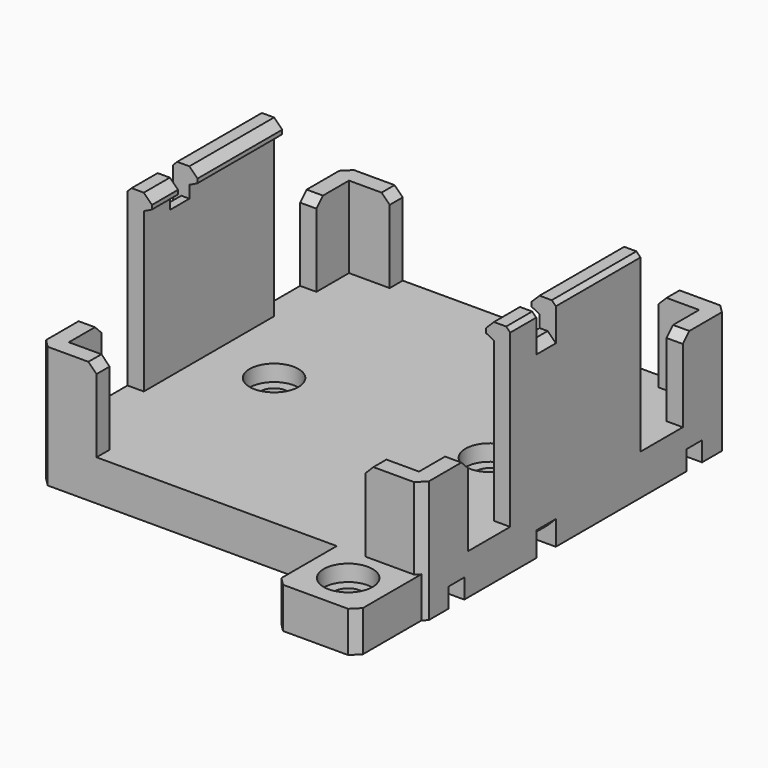
from build123d import *

# Parameters (mm, degrees)
BOX025_W           = 50
BOX025_H           = 3
BOX025_DEPTH       = 5
BOX024_W           = 50
BOX024_H           = 3
BOX024_DEPTH       = 2
CYLINDER004_R      = 3
CYLINDER004_DEPTH  = 10
CYLINDER005_R      = 1.7
CYLINDER005_DEPTH  = 10
BOX016_W           = 10
BOX016_H           = 10
BOX016_DEPTH       = 5
CHAMFER012_SIZE    = 1
BOX015_W           = 50
BOX015_H           = 2.4
BOX015_DEPTH       = 2.4
BOX014_W           = 50
BOX014_H           = 2.4
BOX014_DEPTH       = 2.4
BOX012_W           = 3
BOX012_H           = 20
BOX012_DEPTH       = 2
CHAMFER001_SIZE    = 1
CHAMFER003_SIZE2   = 1
CHAMFER003_SIZE    = 0.5
CHAMFER005_SIZE    = 0.5
BOX010_W           = 2
BOX010_H           = 20
BOX010_DEPTH       = 20
BOX001_W           = 7
BOX001_H           = 2
BOX001_DEPTH       = 10
BOX008_W           = 2
BOX008_H           = 7
BOX008_DEPTH       = 10
CHAMFER006_SIZE    = 1
BOX003_W           = 7
BOX003_H           = 2
BOX003_DEPTH       = 10
BOX005_W           = 2
BOX005_H           = 7
BOX005_DEPTH       = 10
CHAMFER007_SIZE    = 1
BOX006_W           = 2
BOX006_H           = 7
BOX006_DEPTH       = 10
BOX004_W           = 7
BOX004_H           = 2
BOX004_DEPTH       = 10
CHAMFER008_SIZE    = 1
BOX007_W           = 2
BOX007_H           = 7
BOX007_DEPTH       = 10
BOX002_W           = 7
BOX002_H           = 2
BOX002_DEPTH       = 10
CHAMFER009_SIZE    = 1
CYLINDER002_R      = 1.7
CYLINDER002_DEPTH  = 10
CYLINDER003_R      = 1.7
CYLINDER003_DEPTH  = 10
CYLINDER_R         = 3
CYLINDER_DEPTH     = 10
CYLINDER001_R      = 3
CYLINDER001_DEPTH  = 10
BOX013_W           = 47
BOX013_H           = 47
BOX013_DEPTH       = 5
CHAMFER010_SIZE    = 1
BOX011_W           = 3
BOX011_H           = 20
BOX011_DEPTH       = 2
CHAMFER_SIZE       = 1
CHAMFER002_SIZE2   = 1
CHAMFER002_SIZE    = 0.5
CHAMFER004_SIZE    = 0.5
BOX009_W           = 2
BOX009_H           = 20
BOX009_DEPTH       = 20
CHAMFER011_SIZE    = 1
CHAMFER005006_SIZE = 1
CHAMFER005007_SIZE = 1


with BuildPart() as cube024:
    # Box025 → Box025 (new body)
    with BuildSketch(Plane(origin=(-25, -6, 18), x_dir=(1, 0, 0), z_dir=(0, 0, 1))):
        with Locations((25, 1.5)):
            Rectangle(BOX025_W, BOX025_H)
    extrude(amount=BOX025_DEPTH)


with BuildPart() as cube023:
    # Box024 → Box024 (new body)
    with BuildSketch(Plane(origin=(-25, -6, -5), x_dir=(1, 0, 0), z_dir=(0, 0, 1))):
        with Locations((25, 1.5)):
            Rectangle(BOX024_W, BOX024_H)
    extrude(amount=BOX024_DEPTH)


with BuildPart() as cylinder004:
    # Cylinder004 → Cylinder004 (new body)
    with BuildSketch(Plane(origin=(18, -28, 0), x_dir=(1, 0, 0), z_dir=(0, 0, 1))):
        Circle(CYLINDER004_R)
    extrude(amount=CYLINDER004_DEPTH)


with BuildPart() as fusion012:
    # Cylinder005 → Cylinder005 (new body)
    with BuildSketch(Plane(origin=(18, -28, -7), x_dir=(1, 0, 0), z_dir=(0, 0, 1))):
        Circle(CYLINDER005_R)
    extrude(amount=CYLINDER005_DEPTH)

    # Fusion012: union Cylinder004
    add(cylinder004.part)


with BuildPart() as fusion012_1:
    # Fusion012 placement: moved
    add(fusion012.part.moved(Location((0, 0, -2))))


with BuildPart() as chamfer012:
    # Box016 → Box016 (new body)
    with BuildSketch(Plane(origin=(13, -33, -5), x_dir=(1, 0, 0), z_dir=(0, 0, 1))):
        with Locations((5, 5)):
            Rectangle(BOX016_W, BOX016_H)
    extrude(amount=BOX016_DEPTH)

    # Cut003004: cut Fusion012
    add(fusion012_1.part, mode=Mode.SUBTRACT)

    # Chamfer012
    chamfer012_edges = [chamfer012.edges().sort_by_distance(p)[0] for p in [
        (13, -33, -2.5),
        (23, -33, -2.5),
    ]]
    chamfer(chamfer012_edges, length=CHAMFER012_SIZE)


with BuildPart() as cube014:
    # Box015 → Box015 (new body)
    with BuildSketch(Plane(origin=(-25, 17.05, -5), x_dir=(1, 0, 0), z_dir=(0, 0, 1))):
        with Locations((25, 1.2)):
            Rectangle(BOX015_W, BOX015_H)
    extrude(amount=BOX015_DEPTH)


with BuildPart() as fusion011:
    # Box014 → Box014 (new body)
    with BuildSketch(Plane(origin=(-25, -19.45, -5), x_dir=(1, 0, 0), z_dir=(0, 0, 1))):
        with Locations((25, 1.2)):
            Rectangle(BOX014_W, BOX014_H)
    extrude(amount=BOX014_DEPTH)

    # Fusion011: union Cube014
    add(cube014.part)


with BuildPart() as chamfer005:
    # Box012 → Box012 (new body)
    with BuildSketch(Plane(origin=(20.5, -10, 19.5), x_dir=(1, 0, 0), z_dir=(0, 0, 1))):
        with Locations((1.5, 10)):
            Rectangle(BOX012_W, BOX012_H)
    extrude(amount=BOX012_DEPTH)

    # Chamfer001
    chamfer001_edges = [chamfer005.edges().sort_by_distance(p)[0] for p in [
        (20.5, 0, 21.5),
    ]]
    chamfer(chamfer001_edges, length=CHAMFER001_SIZE)

    # Chamfer003
    chamfer003_edges = [chamfer005.edges().sort_by_distance(p)[0] for p in [
        (20.5, 0, 19.5),
    ]]
    chamfer003_side = chamfer005.faces().sort_by_distance((20.5, 0, 20))[0]
    chamfer(chamfer003_edges, length=CHAMFER003_SIZE, length2=CHAMFER003_SIZE2, reference=chamfer003_side)

    # Chamfer005
    chamfer005_edges = [chamfer005.edges().sort_by_distance(p)[0] for p in [
        (23.5, 0, 21.5),
    ]]
    chamfer(chamfer005_edges, length=CHAMFER005_SIZE)


with BuildPart() as fusion001:
    # Box010 → Box010 (new body)
    with BuildSketch(Plane(origin=(21.5, -10, 0), x_dir=(1, 0, 0), z_dir=(0, 0, 1))):
        with Locations((1, 10)):
            Rectangle(BOX010_W, BOX010_H)
    extrude(amount=BOX010_DEPTH)

    # Fusion001: union Chamfer005
    add(chamfer005.part)


with BuildPart() as cube:
    # Box001 → Box001 (new body)
    with BuildSketch(Plane(origin=(-23.5, 21.5, 0), x_dir=(1, 0, 0), z_dir=(0, 0, 1))):
        with Locations((3.5, 1)):
            Rectangle(BOX001_W, BOX001_H)
    extrude(amount=BOX001_DEPTH)


with BuildPart() as chamfer006:
    # Box008 → Box008 (new body)
    with BuildSketch(Plane(origin=(-23.5, 16.5, 0), x_dir=(1, 0, 0), z_dir=(0, 0, 1))):
        with Locations((1, 3.5)):
            Rectangle(BOX008_W, BOX008_H)
    extrude(amount=BOX008_DEPTH)

    # Fusion002: union Cube
    add(cube.part)

    # Chamfer006
    chamfer006_edges = [chamfer006.edges().sort_by_distance(p)[0] for p in [
        (-23.5, 23.5, 5),
    ]]
    chamfer(chamfer006_edges, length=CHAMFER006_SIZE)


with BuildPart() as cube002:
    # Box003 → Box003 (new body)
    with BuildSketch(Plane(origin=(-23.5, -23.5, 0), x_dir=(1, 0, 0), z_dir=(0, 0, 1))):
        with Locations((3.5, 1)):
            Rectangle(BOX003_W, BOX003_H)
    extrude(amount=BOX003_DEPTH)


with BuildPart() as chamfer007:
    # Box005 → Box005 (new body)
    with BuildSketch(Plane(origin=(-23.5, -23.5, 0), x_dir=(1, 0, 0), z_dir=(0, 0, 1))):
        with Locations((1, 3.5)):
            Rectangle(BOX005_W, BOX005_H)
    extrude(amount=BOX005_DEPTH)

    # Fusion004: union Cube002
    add(cube002.part)

    # Chamfer007
    chamfer007_edges = [chamfer007.edges().sort_by_distance(p)[0] for p in [
        (-23.5, -23.5, 5),
    ]]
    chamfer(chamfer007_edges, length=CHAMFER007_SIZE)


with BuildPart() as cube005:
    # Box006 → Box006 (new body)
    with BuildSketch(Plane(origin=(21.5, -23.5, 0), x_dir=(1, 0, 0), z_dir=(0, 0, 1))):
        with Locations((1, 3.5)):
            Rectangle(BOX006_W, BOX006_H)
    extrude(amount=BOX006_DEPTH)


with BuildPart() as chamfer008:
    # Box004 → Box004 (new body)
    with BuildSketch(Plane(origin=(16.5, -23.5, 0), x_dir=(1, 0, 0), z_dir=(0, 0, 1))):
        with Locations((3.5, 1)):
            Rectangle(BOX004_W, BOX004_H)
    extrude(amount=BOX004_DEPTH)

    # Fusion005: union Cube005
    add(cube005.part)

    # Chamfer008
    chamfer008_edges = [chamfer008.edges().sort_by_distance(p)[0] for p in [
        (23.5, -23.5, 5),
    ]]
    chamfer(chamfer008_edges, length=CHAMFER008_SIZE)


with BuildPart() as cube006:
    # Box007 → Box007 (new body)
    with BuildSketch(Plane(origin=(21.5, 16.5, 0), x_dir=(1, 0, 0), z_dir=(0, 0, 1))):
        with Locations((1, 3.5)):
            Rectangle(BOX007_W, BOX007_H)
    extrude(amount=BOX007_DEPTH)


with BuildPart() as chamfer009:
    # Box002 → Box002 (new body)
    with BuildSketch(Plane(origin=(16.5, 21.5, 0), x_dir=(1, 0, 0), z_dir=(0, 0, 1))):
        with Locations((3.5, 1)):
            Rectangle(BOX002_W, BOX002_H)
    extrude(amount=BOX002_DEPTH)

    # Fusion003: union Cube006
    add(cube006.part)

    # Chamfer009
    chamfer009_edges = [chamfer009.edges().sort_by_distance(p)[0] for p in [
        (23.5, 23.5, 5),
    ]]
    chamfer(chamfer009_edges, length=CHAMFER009_SIZE)


with BuildPart() as cylinder002:
    # Cylinder002 → Cylinder002 (new body)
    with BuildSketch(Plane(origin=(13, 0, 0), x_dir=(1, 0, 0), z_dir=(0, 0, 1))):
        Circle(CYLINDER002_R)
    extrude(amount=CYLINDER002_DEPTH)


with BuildPart() as fusion007:
    # Cylinder003 → Cylinder003 (new body)
    with BuildSketch(Plane(origin=(-13.5, 0, 0), x_dir=(1, 0, 0), z_dir=(0, 0, 1))):
        Circle(CYLINDER003_R)
    extrude(amount=CYLINDER003_DEPTH)

    # Fusion007: union Cylinder002
    add(cylinder002.part)


with BuildPart() as cylinder:
    # Cylinder → Cylinder (new body)
    with BuildSketch(Plane(origin=(-13.5, 0, 0), x_dir=(1, 0, 0), z_dir=(0, 0, 1))):
        Circle(CYLINDER_R)
    extrude(amount=CYLINDER_DEPTH)


with BuildPart() as fusion009:
    # Cylinder001 → Cylinder001 (new body)
    with BuildSketch(Plane(origin=(13, 0, 0), x_dir=(1, 0, 0), z_dir=(0, 0, 1))):
        Circle(CYLINDER001_R)
    extrude(amount=CYLINDER001_DEPTH)

    # Fusion008: union Cylinder
    add(cylinder.part)


with BuildPart() as fusion009_1:
    # Fusion008 placement: moved
    add(fusion009.part.moved(Location((0, 0, 10))))

    # Fusion009: union Fusion007
    add(fusion007.part)


with BuildPart() as fusion009_2:
    # Fusion009 placement: moved
    add(fusion009_1.part.moved(Location((0, 0, -12))))


with BuildPart() as cut:
    # Box013 → Box013 (new body)
    with BuildSketch(Plane(origin=(-23.5, -23.5, -5), x_dir=(1, 0, 0), z_dir=(0, 0, 1))):
        with Locations((23.5, 23.5)):
            Rectangle(BOX013_W, BOX013_H)
    extrude(amount=BOX013_DEPTH)

    # Chamfer010
    chamfer010_edges = [cut.edges().sort_by_distance(p)[0] for p in [
        (-23.5, -23.5, -2.5),
        (-23.5, 23.5, -2.5),
        (23.5, -23.5, -2.5),
        (23.5, 23.5, -2.5),
    ]]
    chamfer(chamfer010_edges, length=CHAMFER010_SIZE)

    # Cut: cut Fusion009
    add(fusion009_2.part, mode=Mode.SUBTRACT)


with BuildPart() as chamfer004:
    # Box011 → Box011 (new body)
    with BuildSketch(Plane(origin=(-23.5, -10, 19.5), x_dir=(1, 0, 0), z_dir=(0, 0, 1))):
        with Locations((1.5, 10)):
            Rectangle(BOX011_W, BOX011_H)
    extrude(amount=BOX011_DEPTH)

    # Chamfer
    chamfer_edges = [chamfer004.edges().sort_by_distance(p)[0] for p in [
        (-20.5, 0, 21.5),
    ]]
    chamfer(chamfer_edges, length=CHAMFER_SIZE)

    # Chamfer002
    chamfer002_edges = [chamfer004.edges().sort_by_distance(p)[0] for p in [
        (-20.5, 0, 19.5),
    ]]
    chamfer002_side = chamfer004.faces().sort_by_distance((-20.5, 0, 20))[0]
    chamfer(chamfer002_edges, length=CHAMFER002_SIZE, length2=CHAMFER002_SIZE2, reference=chamfer002_side)

    # Chamfer004
    chamfer004_edges = [chamfer004.edges().sort_by_distance(p)[0] for p in [
        (-23.5, 0, 21.5),
    ]]
    chamfer(chamfer004_edges, length=CHAMFER004_SIZE)


with BuildPart() as obj1:
    # Box009 → Box009 (new body)
    with BuildSketch(Plane(origin=(-23.5, -10, 0), x_dir=(1, 0, 0), z_dir=(0, 0, 1))):
        with Locations((1, 10)):
            Rectangle(BOX009_W, BOX009_H)
    extrude(amount=BOX009_DEPTH)

    # Fusion: union Chamfer004
    add(chamfer004.part)

    # Fusion010: union Fusion001, Chamfer006, Chamfer007, Chamfer008, Chamfer009, Cut
    add(fusion001.part)
    add(chamfer006.part)
    add(chamfer007.part)
    add(chamfer008.part)
    add(chamfer009.part)
    add(cut.part)

    # Chamfer011
    chamfer011_edges = [obj1.edges().sort_by_distance(p)[0] for p in [
        (-22.5, 16.5, 10),
        (-16.5, 22.5, 10),
        (-22.5, -16.5, 10),
        (16.5, 22.5, 10),
        (22.5, 16.5, 10),
        (22.5, -16.5, 10),
        (16.5, -22.5, 10),
        (-16.5, -22.5, 10),
    ]]
    chamfer(chamfer011_edges, length=CHAMFER011_SIZE)

    # Cut003003: cut Fusion011
    add(fusion011.part, mode=Mode.SUBTRACT)

    # Fusion013: union Chamfer012
    add(chamfer012.part)

    # Cut003010: cut Cube023
    add(cube023.part, mode=Mode.SUBTRACT)

    # Chamfer005006
    chamfer005006_edges = [obj1.edges().sort_by_distance(p)[0] for p in [
        (-23.5, -4.5, -3),
        (23.5, -4.5, -3),
    ]]
    chamfer(chamfer005006_edges, length=CHAMFER005006_SIZE)

    # Cut003011: cut Cube024
    add(cube024.part, mode=Mode.SUBTRACT)

    # Chamfer005007
    chamfer005007_edges = [obj1.edges().sort_by_distance(p)[0] for p in [
        (-23.5, -4.5, 18),
        (23.5, -4.5, 18),
    ]]
    chamfer(chamfer005007_edges, length=CHAMFER005007_SIZE)


solid = obj1.part
